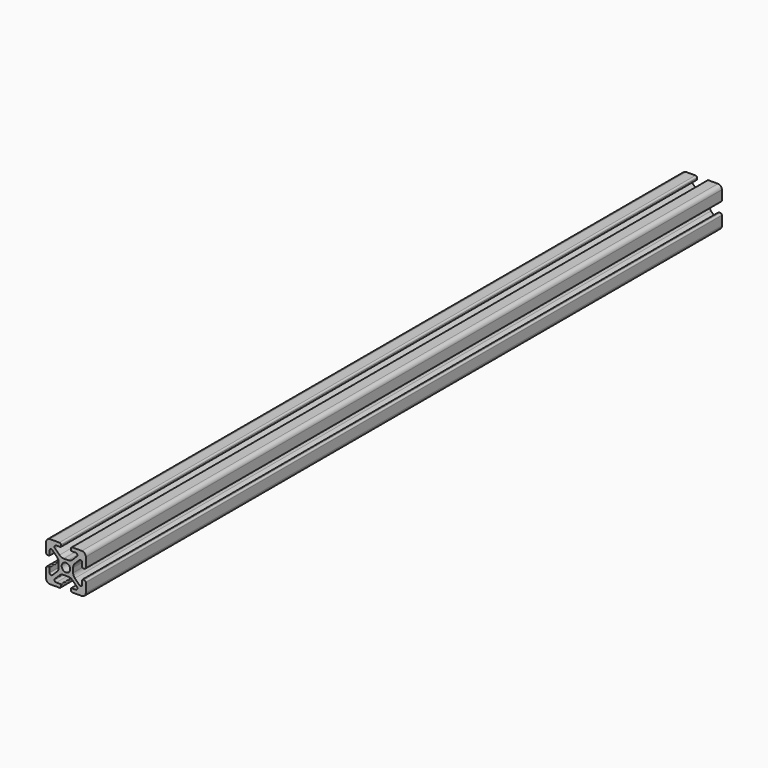
from build123d import *

# Parameters (mm, degrees)
F0_R     = 2.1463
F1_DEPTH = 400


with BuildPart() as f1:
    # F0 (on Front) → F1 (new body)
    with BuildSketch(Plane.XZ):
        with BuildLine():
            Line((-3.2893, 9.9949), (-7.9883, 9.9949))
            ThreePointArc((-7.9883, 9.9949), (-9.40718, 9.40718), (-9.9949, 7.9883))
            Line((-9.9949, 7.9883), (-9.9949, 3.2893))
            ThreePointArc((-9.9949, 3.2893), (-9.764276, 2.732524), (-9.2075, 2.5019))
            Line((-9.2075, 2.5019), (-8.4963, 2.5019))
            ThreePointArc((-8.4963, 2.5019), (-8.280774, 2.591174), (-8.1915, 2.8067))
            Line((-8.1915, 2.8067), (-8.1915, 4.9149))
            ThreePointArc((-8.1915, 4.9149), (-7.674065, 5.689296), (-6.760603, 5.507597))
            Line((-6.760603, 5.507597), (-4.505766, 3.25276))
            ThreePointArc((-4.505766, 3.25276), (-3.856054, 2.280398), (-3.627906, 1.133419))
            Line((-3.627906, 1.133419), (-3.627906, -1.133419))
            ThreePointArc((-3.627906, -1.133419), (-3.856054, -2.280398), (-4.505766, -3.25276))
            Line((-4.505766, -3.25276), (-6.760603, -5.507597))
            ThreePointArc((-6.760603, -5.507597), (-7.674065, -5.689296), (-8.1915, -4.9149))
            Line((-8.1915, -4.9149), (-8.1915, -2.8067))
            ThreePointArc((-8.1915, -2.8067), (-8.280774, -2.591174), (-8.4963, -2.5019))
            Line((-8.4963, -2.5019), (-9.2075, -2.5019))
            ThreePointArc((-9.2075, -2.5019), (-9.764276, -2.732524), (-9.9949, -3.2893))
            Line((-9.9949, -3.2893), (-9.9949, -7.9883))
            ThreePointArc((-9.9949, -7.9883), (-9.40718, -9.40718), (-7.9883, -9.9949))
            Line((-7.9883, -9.9949), (-3.2893, -9.9949))
            ThreePointArc((-3.2893, -9.9949), (-2.732524, -9.764276), (-2.5019, -9.2075))
            Line((-2.5019, -9.2075), (-2.5019, -8.4963))
            ThreePointArc((-2.5019, -8.4963), (-2.591174, -8.280774), (-2.8067, -8.1915))
            Line((-2.8067, -8.1915), (-4.9149, -8.1915))
            ThreePointArc((-4.9149, -8.1915), (-5.689296, -7.674065), (-5.507597, -6.760603))
            Line((-5.507597, -6.760603), (-3.25276, -4.505766))
            ThreePointArc((-3.25276, -4.505766), (-2.280398, -3.856054), (-1.133419, -3.627906))
            Line((-1.133419, -3.627906), (1.133419, -3.627906))
            ThreePointArc((1.133419, -3.627906), (2.280398, -3.856054), (3.25276, -4.505766))
            Line((3.25276, -4.505766), (5.507597, -6.760603))
            ThreePointArc((5.507597, -6.760603), (5.689296, -7.674065), (4.9149, -8.1915))
            Line((4.9149, -8.1915), (2.8067, -8.1915))
            ThreePointArc((2.8067, -8.1915), (2.591174, -8.280774), (2.5019, -8.4963))
            Line((2.5019, -8.4963), (2.5019, -9.2075))
            ThreePointArc((2.5019, -9.2075), (2.732524, -9.764276), (3.2893, -9.9949))
            Line((3.2893, -9.9949), (7.9883, -9.9949))
            ThreePointArc((7.9883, -9.9949), (9.40718, -9.40718), (9.9949, -7.9883))
            Line((9.9949, -7.9883), (9.9949, -3.2893))
            ThreePointArc((9.9949, -3.2893), (9.764276, -2.732524), (9.2075, -2.5019))
            Line((9.2075, -2.5019), (8.4963, -2.5019))
            ThreePointArc((8.4963, -2.5019), (8.280774, -2.591174), (8.1915, -2.8067))
            Line((8.1915, -2.8067), (8.1915, -4.9149))
            ThreePointArc((8.1915, -4.9149), (7.674065, -5.689296), (6.760603, -5.507597))
            Line((6.760603, -5.507597), (4.505766, -3.25276))
            ThreePointArc((4.505766, -3.25276), (3.856054, -2.280398), (3.627906, -1.133419))
            Line((3.627906, -1.133419), (3.627906, 1.133419))
            ThreePointArc((3.627906, 1.133419), (3.856054, 2.280398), (4.505766, 3.25276))
            Line((4.505766, 3.25276), (6.760603, 5.507597))
            ThreePointArc((6.760603, 5.507597), (7.674065, 5.689296), (8.1915, 4.9149))
            Line((8.1915, 4.9149), (8.1915, 2.8067))
            ThreePointArc((8.1915, 2.8067), (8.280774, 2.591174), (8.4963, 2.5019))
            Line((8.4963, 2.5019), (9.2075, 2.5019))
            ThreePointArc((9.2075, 2.5019), (9.764276, 2.732524), (9.9949, 3.2893))
            Line((9.9949, 3.2893), (9.9949, 7.9883))
            ThreePointArc((9.9949, 7.9883), (9.40718, 9.40718), (7.9883, 9.9949))
            Line((7.9883, 9.9949), (3.2893, 9.9949))
            ThreePointArc((3.2893, 9.9949), (2.732524, 9.764276), (2.5019, 9.2075))
            Line((2.5019, 9.2075), (2.5019, 8.4963))
            ThreePointArc((2.5019, 8.4963), (2.591174, 8.280774), (2.8067, 8.1915))
            Line((2.8067, 8.1915), (4.9149, 8.1915))
            ThreePointArc((4.9149, 8.1915), (5.689296, 7.674065), (5.507597, 6.760603))
            Line((5.507597, 6.760603), (3.25276, 4.505766))
            ThreePointArc((3.25276, 4.505766), (2.280398, 3.856054), (1.133419, 3.627906))
            Line((1.133419, 3.627906), (-1.133419, 3.627906))
            ThreePointArc((-1.133419, 3.627906), (-2.280398, 3.856054), (-3.25276, 4.505766))
            Line((-3.25276, 4.505766), (-5.507597, 6.760603))
            ThreePointArc((-5.507597, 6.760603), (-5.689296, 7.674065), (-4.9149, 8.1915))
            Line((-4.9149, 8.1915), (-2.8067, 8.1915))
            ThreePointArc((-2.8067, 8.1915), (-2.591174, 8.280774), (-2.5019, 8.4963))
            Line((-2.5019, 8.4963), (-2.5019, 9.2075))
            ThreePointArc((-2.5019, 9.2075), (-2.732524, 9.764276), (-3.2893, 9.9949))
        make_face()
        Circle(F0_R, mode=Mode.SUBTRACT)
    extrude(amount=F1_DEPTH)


solid = f1.part
